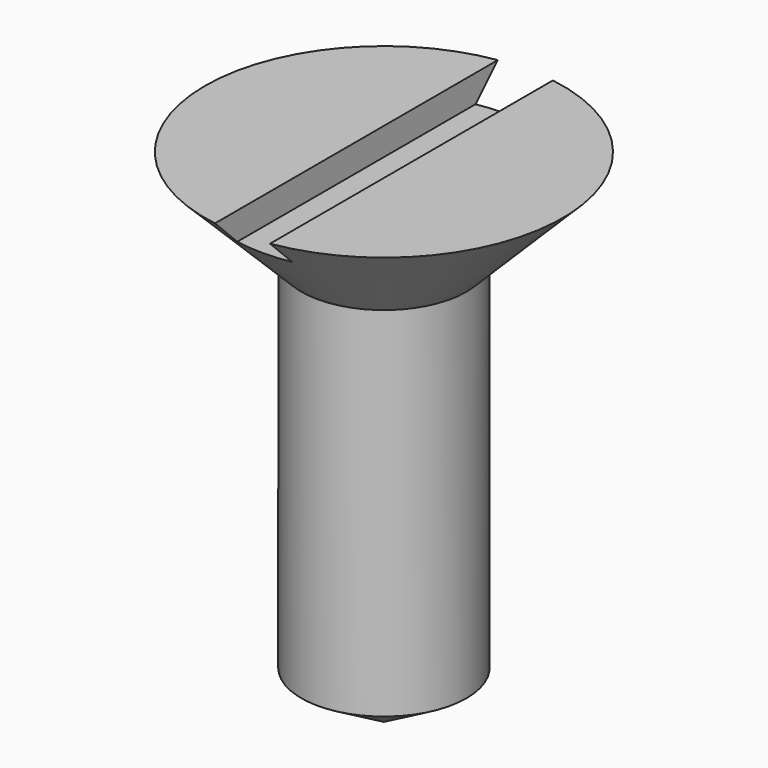
from build123d import *

# Parameters (mm, degrees)
F0_R     = 3
F1_DEPTH = 13
F7_DEPTH = 12.5


with BuildPart() as f1:
    # F0 (on Top) → F1 (new body)
    with BuildSketch(Plane.XY):
        Circle(F0_R)
    extrude(amount=F1_DEPTH)

    # F4 (on Front) → F5 (revolve)
    with BuildSketch(Plane.XZ):
        Polygon((-3, 13), (0, 13), (0, 15.5), (0, 16.5), (-1, 16.5), (-6.5, 16.5), align=None)
    revolve(axis=Axis((0, 0, 14.25), (0, 0, 1)))

    # F6 (on Front) → F7 (cut, symmetric)
    with BuildSketch(Plane.XZ):
        Polygon((-1, 15.5), (0, 15.5), (1, 15.5), (1, 16.5), (-1, 16.5), align=None)
    extrude(amount=F7_DEPTH, both=True, mode=Mode.SUBTRACT)


with BuildPart() as f3:
    # F2 (on Front) → F3 (revolve)
    with BuildSketch(Plane.XZ):
        Polygon((3, 0), (0, 0), (0, -1.732051), align=None)
    revolve(axis=Axis((0, 0, -0.866025), (0, 0, 1)))


solid = Compound([f1.part, f3.part])
